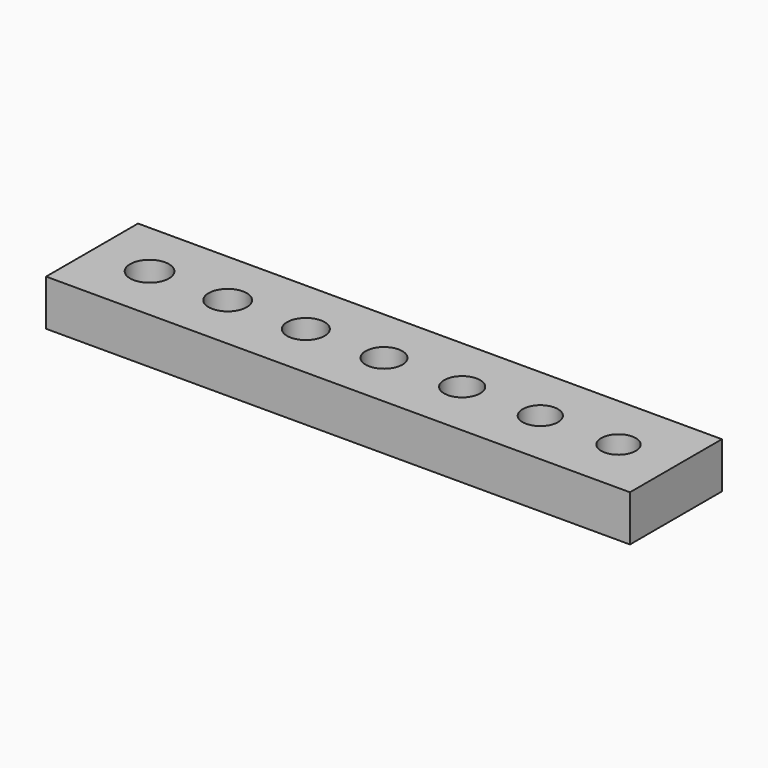
from build123d import *

# Parameters (mm, degrees)
F0_W     = 127
F0_H     = 25
F0_R     = 4.225
F0_R_2   = 4.15
F0_R_3   = 4.075
F0_R_4   = 4
F0_R_5   = 3.925
F0_R_6   = 3.85
F0_R_7   = 3.775
F1_DEPTH = 10


with BuildPart() as f1:
    # F0 (on Top) → F1 (new body)
    with BuildSketch(Plane.XY):
        Rectangle(F0_W, F0_H)
        with Locations((-51, 0)):
            Circle(F0_R, mode=Mode.SUBTRACT)
        with Locations((-34, 0)):
            Circle(F0_R_2, mode=Mode.SUBTRACT)
        with Locations((-17, 0)):
            Circle(F0_R_3, mode=Mode.SUBTRACT)
        Circle(F0_R_4, mode=Mode.SUBTRACT)
        with Locations((17, 0)):
            Circle(F0_R_5, mode=Mode.SUBTRACT)
        with Locations((34, 0)):
            Circle(F0_R_6, mode=Mode.SUBTRACT)
        with Locations((51, 0)):
            Circle(F0_R_7, mode=Mode.SUBTRACT)
    extrude(amount=F1_DEPTH)


solid = f1.part
